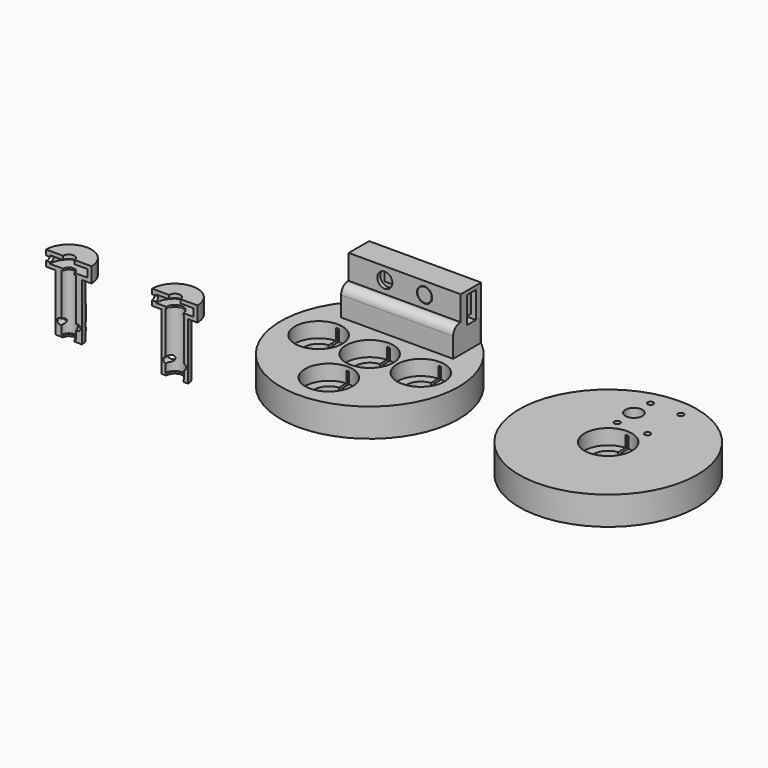
from build123d import *

# Parameters (mm, degrees)
CYLINDER_R              = 47
CYLINDER_DEPTH          = 15
CYLINDER001_R           = 45
CYLINDER001_DEPTH       = 7
CYLINDER003_R           = 14
CYLINDER003_DEPTH       = 10
CYLINDER002_R           = 12.5
CYLINDER002_DEPTH       = 8
CYLINDER004_R           = 7.6
CYLINDER004_DEPTH       = 10
BOX_W                   = 1.5
BOX_H                   = 13.3
BOX_DEPTH               = 13
CYLINDER005_R           = 1.5
CYLINDER005_DEPTH       = 15
CYLINDER006_R           = 1.5
CYLINDER006_DEPTH       = 15
CYLINDER007_R           = 1.5
CYLINDER007_DEPTH       = 15
CYLINDER008_R           = 1.5
CYLINDER008_DEPTH       = 15
CYLINDER009_R           = 4.5
CYLINDER009_DEPTH       = 15
CYLINDER010_R           = 47
CYLINDER010_DEPTH       = 15
CYLINDER011_R           = 45
CYLINDER011_DEPTH       = 7
CYLINDER017_R           = 14
CYLINDER017_DEPTH       = 10
CYLINDER013_R           = 12.5
CYLINDER013_DEPTH       = 8
CYLINDER014_R           = 7.6
CYLINDER014_DEPTH       = 10
BOX001_W                = 1.5
BOX001_H                = 13.3
BOX001_DEPTH            = 13
CYLINDER015_R           = 14
CYLINDER015_DEPTH       = 10
CYLINDER019_R           = 12.5
CYLINDER019_DEPTH       = 8
CYLINDER020_R           = 7.6
CYLINDER020_DEPTH       = 10
BOX012_W                = 1.5
BOX012_H                = 13.3
BOX012_DEPTH            = 13
CYLINDER016_R           = 14
CYLINDER016_DEPTH       = 10
CYLINDER021_R           = 12.5
CYLINDER021_DEPTH       = 8
CYLINDER022_R           = 7.6
CYLINDER022_DEPTH       = 10
BOX013_W                = 1.5
BOX013_H                = 13.3
BOX013_DEPTH            = 13
CYLINDER018_R           = 14
CYLINDER018_DEPTH       = 10
CYLINDER023_R           = 12.5
CYLINDER023_DEPTH       = 8
CYLINDER024_R           = 7.6
CYLINDER024_DEPTH       = 10
BOX014_W                = 1.5
BOX014_H                = 13.3
BOX014_DEPTH            = 13
BOX010_W                = 56
BOX010_H                = 16
BOX010_DEPTH            = 6
BOX011_W                = 50
BOX011_H                = 7
BOX011_DEPTH            = 10
BOX002_W                = 50
BOX002_H                = 30
BOX002_DEPTH            = 1.5
BOX003_W                = 10
BOX003_H                = 10
BOX003_DEPTH            = 4
BOX004_W                = 5
BOX004_H                = 5
BOX004_DEPTH            = 7
BOX005_W                = 5
BOX005_H                = 5
BOX005_DEPTH            = 7
BOX006_W                = 7
BOX006_H                = 5
BOX006_DEPTH            = 8
BOX007_W                = 7
BOX007_H                = 5
BOX007_DEPTH            = 8
BOX008_W                = 7
BOX008_H                = 5
BOX008_DEPTH            = 8
BOX009_W                = 7
BOX009_H                = 5
BOX009_DEPTH            = 8
BOX016_W                = 32
BOX016_H                = 3
BOX016_DEPTH            = 2
BODY002_PLACEMENT_ANGLE = 90
CYLINDER025_R           = 12
CYLINDER025_DEPTH       = 8
CYLINDER026_R           = 7
CYLINDER026_DEPTH       = 30
BOX015_W                = 24
BOX015_H                = 12
BOX015_DEPTH            = 38
CYLINDER027_R           = 5
CYLINDER027_DEPTH       = 30
CYLINDER028_R           = 4.5
CYLINDER028_DEPTH       = 1
CYLINDER032_R           = 4.5
CYLINDER032_DEPTH       = 1
CYLINDER029_R           = 10
CYLINDER029_DEPTH       = 4
CYLINDER030_R           = 3
CYLINDER030_DEPTH       = 2
CYLINDER031_R           = 1.4
CYLINDER031_DEPTH       = 10
CYLINDER035_R           = 1.6
CYLINDER035_DEPTH       = 7
CYLINDER036_R           = 1.6
CYLINDER036_DEPTH       = 7
BOX017_W                = 55.2
BOX017_H                = 2.5
BOX017_DEPTH            = 32
BOX018_W                = 36
BOX018_H                = 3
BOX018_DEPTH            = 7
BOX032_W                = 53
BOX032_H                = 2.5
BOX032_DEPTH            = 1
BOX019_W                = 59.2
BOX019_H                = 1
BOX019_DEPTH            = 26
BOX020_W                = 9.5
BOX020_H                = 13
BOX020_DEPTH            = 2
BOX021_W                = 9.5
BOX021_H                = 13
BOX021_DEPTH            = 2
BOX033_W                = 2
BOX033_H                = 2.5
BOX033_DEPTH            = 14
BOX023_W                = 55.2
BOX023_H                = 13
BOX023_DEPTH            = 4
BOX024_W                = 59.2
BOX024_H                = 17.5
BOX024_DEPTH            = 28
BOX025_W                = 37
BOX025_H                = 13
BOX025_DEPTH            = 6
BOX026_W                = 51
BOX026_H                = 2
BOX026_DEPTH            = 30.5
BOX027_W                = 51
BOX027_H                = 8
BOX027_DEPTH            = 12.5
BOX028_W                = 59.2
BOX028_H                = 5
BOX028_DEPTH            = 13
BOX029_W                = 51
BOX029_H                = 8
BOX029_DEPTH            = 13
CYLINDER033_R           = 4
CYLINDER033_DEPTH       = 3
CYLINDER034_R           = 4
CYLINDER034_DEPTH       = 3
BOX030_W                = 5
BOX030_H                = 8.5
BOX030_DEPTH            = 14
BOX031_W                = 55.2
BOX031_H                = 2.5
BOX031_DEPTH            = 25
BOX034_W                = 59.2
BOX034_H                = 2
BOX034_DEPTH            = 1
FILLET_R                = 4.5
CYLINDER037_R           = 3.75
CYLINDER037_DEPTH       = 5
CYLINDER038_R           = 4.4
CYLINDER038_DEPTH       = 0.8
CYLINDER039_R           = 12
CYLINDER039_DEPTH       = 8
CYLINDER040_R           = 7
CYLINDER040_DEPTH       = 30
BOX035_W                = 24
BOX035_H                = 12
BOX035_DEPTH            = 38
CYLINDER041_R           = 3.75
CYLINDER041_DEPTH       = 30
CYLINDER042_R           = 3
CYLINDER042_DEPTH       = 1
CYLINDER046_R           = 3
CYLINDER046_DEPTH       = 1
CYLINDER043_R           = 10
CYLINDER043_DEPTH       = 4
CYLINDER044_R           = 3
CYLINDER044_DEPTH       = 2
CYLINDER045_R           = 1.4
CYLINDER045_DEPTH       = 10
CYLINDER047_R           = 1.6
CYLINDER047_DEPTH       = 7
CYLINDER048_R           = 1.6
CYLINDER048_DEPTH       = 7


with BuildPart() as cup:
    # Cylinder → Cylinder (join)
    with BuildSketch(Plane.XY):
        Circle(CYLINDER_R)
    extrude(amount=CYLINDER_DEPTH)

    # Cylinder001 → Cylinder001 (cut)
    with BuildSketch(Plane.XY):
        Circle(CYLINDER001_R)
    extrude(amount=CYLINDER001_DEPTH, mode=Mode.SUBTRACT)

    # Cylinder003 → Cylinder003 (join)
    with BuildSketch(Plane.XY):
        Circle(CYLINDER003_R)
    extrude(amount=CYLINDER003_DEPTH)

    # Cylinder002 → Cylinder002 (cut)
    with BuildSketch(Plane.XY.offset(7)):
        Circle(CYLINDER002_R)
    extrude(amount=CYLINDER002_DEPTH, mode=Mode.SUBTRACT)

    # Cylinder004 → Cylinder004 (cut)
    with BuildSketch(Plane.XY):
        Circle(CYLINDER004_R)
    extrude(amount=CYLINDER004_DEPTH, mode=Mode.SUBTRACT)

    # Box → Box (cut)
    with BuildSketch(Plane(origin=(-0.75, 0, 0), x_dir=(1, 0, 0), z_dir=(0, 0, 1))):
        with Locations((0.75, 6.65)):
            Rectangle(BOX_W, BOX_H)
    extrude(amount=BOX_DEPTH, mode=Mode.SUBTRACT)

    # Cylinder005 → Cylinder005 (cut)
    with BuildSketch(Plane(origin=(-8, 38, 0), x_dir=(1, 0, 0), z_dir=(0, 0, 1))):
        Circle(CYLINDER005_R)
    extrude(amount=CYLINDER005_DEPTH, mode=Mode.SUBTRACT)

    # Cylinder006 → Cylinder006 (cut)
    with BuildSketch(Plane(origin=(-8, 16, 0), x_dir=(1, 0, 0), z_dir=(0, 0, 1))):
        Circle(CYLINDER006_R)
    extrude(amount=CYLINDER006_DEPTH, mode=Mode.SUBTRACT)

    # Cylinder007 → Cylinder007 (cut)
    with BuildSketch(Plane(origin=(8, 38, 0), x_dir=(1, 0, 0), z_dir=(0, 0, 1))):
        Circle(CYLINDER007_R)
    extrude(amount=CYLINDER007_DEPTH, mode=Mode.SUBTRACT)

    # Cylinder008 → Cylinder008 (cut)
    with BuildSketch(Plane(origin=(8, 16, 0), x_dir=(1, 0, 0), z_dir=(0, 0, 1))):
        Circle(CYLINDER008_R)
    extrude(amount=CYLINDER008_DEPTH, mode=Mode.SUBTRACT)

    # Cylinder009 → Cylinder009 (cut)
    with BuildSketch(Plane(origin=(-8, 27, 0), x_dir=(1, 0, 0), z_dir=(0, 0, 1))):
        Circle(CYLINDER009_R)
    extrude(amount=CYLINDER009_DEPTH, mode=Mode.SUBTRACT)


with BuildPart() as body001:
    # Cylinder010 → Cylinder010 (join)
    with BuildSketch(Plane.XY):
        Circle(CYLINDER010_R)
    extrude(amount=CYLINDER010_DEPTH)

    # Cylinder011 → Cylinder011 (cut)
    with BuildSketch(Plane.XY):
        Circle(CYLINDER011_R)
    extrude(amount=CYLINDER011_DEPTH, mode=Mode.SUBTRACT)

    # Cylinder017 → Cylinder017 (join)
    with BuildSketch(Plane.XY):
        Circle(CYLINDER017_R)
    extrude(amount=CYLINDER017_DEPTH)

    # Cylinder013 → Cylinder013 (cut)
    with BuildSketch(Plane.XY.offset(7)):
        Circle(CYLINDER013_R)
    extrude(amount=CYLINDER013_DEPTH, mode=Mode.SUBTRACT)

    # Cylinder014 → Cylinder014 (cut)
    with BuildSketch(Plane.XY):
        Circle(CYLINDER014_R)
    extrude(amount=CYLINDER014_DEPTH, mode=Mode.SUBTRACT)

    # Box001 → Box001 (cut)
    with BuildSketch(Plane(origin=(-0.75, 0, 0), x_dir=(1, 0, 0), z_dir=(0, 0, 1))):
        with Locations((0.75, 6.65)):
            Rectangle(BOX001_W, BOX001_H)
    extrude(amount=BOX001_DEPTH, mode=Mode.SUBTRACT)

    # Cylinder015 → Cylinder015 (join)
    with BuildSketch(Plane(origin=(-27, 0, 0), x_dir=(1, 0, 0), z_dir=(0, 0, 1))):
        Circle(CYLINDER015_R)
    extrude(amount=CYLINDER015_DEPTH)

    # Cylinder019 → Cylinder019 (cut)
    with BuildSketch(Plane(origin=(-27, 0, 7), x_dir=(1, 0, 0), z_dir=(0, 0, 1))):
        Circle(CYLINDER019_R)
    extrude(amount=CYLINDER019_DEPTH, mode=Mode.SUBTRACT)

    # Cylinder020 → Cylinder020 (cut)
    with BuildSketch(Plane(origin=(-27, 0, 0), x_dir=(1, 0, 0), z_dir=(0, 0, 1))):
        Circle(CYLINDER020_R)
    extrude(amount=CYLINDER020_DEPTH, mode=Mode.SUBTRACT)

    # Box012 → Box012 (cut)
    with BuildSketch(Plane(origin=(-27.75, 0, 0), x_dir=(1, 0, 0), z_dir=(0, 0, 1))):
        with Locations((0.75, 6.65)):
            Rectangle(BOX012_W, BOX012_H)
    extrude(amount=BOX012_DEPTH, mode=Mode.SUBTRACT)

    # Cylinder016 → Cylinder016 (join)
    with BuildSketch(Plane(origin=(27, 0, 0), x_dir=(1, 0, 0), z_dir=(0, 0, 1))):
        Circle(CYLINDER016_R)
    extrude(amount=CYLINDER016_DEPTH)

    # Cylinder021 → Cylinder021 (cut)
    with BuildSketch(Plane(origin=(27, 0, 7), x_dir=(1, 0, 0), z_dir=(0, 0, 1))):
        Circle(CYLINDER021_R)
    extrude(amount=CYLINDER021_DEPTH, mode=Mode.SUBTRACT)

    # Cylinder022 → Cylinder022 (cut)
    with BuildSketch(Plane(origin=(27, 0, 0), x_dir=(1, 0, 0), z_dir=(0, 0, 1))):
        Circle(CYLINDER022_R)
    extrude(amount=CYLINDER022_DEPTH, mode=Mode.SUBTRACT)

    # Box013 → Box013 (cut)
    with BuildSketch(Plane(origin=(26.25, 0, 0), x_dir=(1, 0, 0), z_dir=(0, 0, 1))):
        with Locations((0.75, 6.65)):
            Rectangle(BOX013_W, BOX013_H)
    extrude(amount=BOX013_DEPTH, mode=Mode.SUBTRACT)

    # Cylinder018 → Cylinder018 (join)
    with BuildSketch(Plane(origin=(0, -27, 0), x_dir=(1, 0, 0), z_dir=(0, 0, 1))):
        Circle(CYLINDER018_R)
    extrude(amount=CYLINDER018_DEPTH)

    # Cylinder023 → Cylinder023 (cut)
    with BuildSketch(Plane(origin=(0, -27, 7), x_dir=(1, 0, 0), z_dir=(0, 0, 1))):
        Circle(CYLINDER023_R)
    extrude(amount=CYLINDER023_DEPTH, mode=Mode.SUBTRACT)

    # Cylinder024 → Cylinder024 (cut)
    with BuildSketch(Plane(origin=(0, -27, 0), x_dir=(1, 0, 0), z_dir=(0, 0, 1))):
        Circle(CYLINDER024_R)
    extrude(amount=CYLINDER024_DEPTH, mode=Mode.SUBTRACT)

    # Box014 → Box014 (cut)
    with BuildSketch(Plane(origin=(-0.75, -27, 0), x_dir=(1, 0, 0), z_dir=(0, 0, 1))):
        with Locations((0.75, 6.65)):
            Rectangle(BOX014_W, BOX014_H)
    extrude(amount=BOX014_DEPTH, mode=Mode.SUBTRACT)

    # Box010 → Box010 (cut)
    with BuildSketch(Plane(origin=(-28, 20, 9), x_dir=(1, 0, 0), z_dir=(0, 0, 1))):
        with Locations((28, 8)):
            Rectangle(BOX010_W, BOX010_H)
    extrude(amount=BOX010_DEPTH, mode=Mode.SUBTRACT)

    # Box011 → Box011 (cut)
    with BuildSketch(Plane(origin=(-25, 22, 0), x_dir=(1, 0, 0), z_dir=(0, 0, 1))):
        with Locations((25, 3.5)):
            Rectangle(BOX011_W, BOX011_H)
    extrude(amount=BOX011_DEPTH, mode=Mode.SUBTRACT)


with BuildPart() as body001_1:
    # Body001 placement: moved
    add(body001.part.moved(Location((-126, 0, 0))))


with BuildPart() as pcb:
    # Box002 → Box002 (join)
    with BuildSketch(Plane.XY):
        with Locations((25, 15)):
            Rectangle(BOX002_W, BOX002_H)
    extrude(amount=BOX002_DEPTH)

    # Box003 → Box003 (join)
    with BuildSketch(Plane(origin=(42, 18, 0), x_dir=(1, 0, 0), z_dir=(0, 0, 1))):
        with Locations((5, 5)):
            Rectangle(BOX003_W, BOX003_H)
    extrude(amount=BOX003_DEPTH)

    # Box004 → Box004 (join)
    with BuildSketch(Plane(origin=(33, 23, 0), x_dir=(1, 0, 0), z_dir=(0, 0, 1))):
        with Locations((2.5, 2.5)):
            Rectangle(BOX004_W, BOX004_H)
    extrude(amount=BOX004_DEPTH)

    # Box005 → Box005 (join)
    with BuildSketch(Plane(origin=(12, 23, 0), x_dir=(1, 0, 0), z_dir=(0, 0, 1))):
        with Locations((2.5, 2.5)):
            Rectangle(BOX005_W, BOX005_H)
    extrude(amount=BOX005_DEPTH)

    # Box006 → Box006 (join)
    with BuildSketch(Plane(origin=(7, 0, 0), x_dir=(1, 0, 0), z_dir=(0, 0, 1))):
        with Locations((3.5, 2.5)):
            Rectangle(BOX006_W, BOX006_H)
    extrude(amount=BOX006_DEPTH)

    # Box007 → Box007 (join)
    with BuildSketch(Plane(origin=(16.5, 0, 0), x_dir=(1, 0, 0), z_dir=(0, 0, 1))):
        with Locations((3.5, 2.5)):
            Rectangle(BOX007_W, BOX007_H)
    extrude(amount=BOX007_DEPTH)

    # Box008 → Box008 (join)
    with BuildSketch(Plane(origin=(26.5, 0, 0), x_dir=(1, 0, 0), z_dir=(0, 0, 1))):
        with Locations((3.5, 2.5)):
            Rectangle(BOX008_W, BOX008_H)
    extrude(amount=BOX008_DEPTH)

    # Box009 → Box009 (join)
    with BuildSketch(Plane(origin=(36, 0, 0), x_dir=(1, 0, 0), z_dir=(0, 0, 1))):
        with Locations((3.5, 2.5)):
            Rectangle(BOX009_W, BOX009_H)
    extrude(amount=BOX009_DEPTH)

    # Box016 → Box016 (join)
    with BuildSketch(Plane(origin=(9, 0, -2), x_dir=(1, 0, 0), z_dir=(0, 0, 1))):
        with Locations((16, 1.5)):
            Rectangle(BOX016_W, BOX016_H)
    extrude(amount=BOX016_DEPTH)


with BuildPart() as pcb_1:
    # Body002 placement: moved
    add(pcb.part.moved(Location((-151, 33, 11))).rotate(Axis((-151, 33, 11), (1, 0, 0)), BODY002_PLACEMENT_ANGLE))


with BuildPart() as body003:
    # Cylinder025 → Cylinder025 (join)
    with BuildSketch(Plane.XY):
        Circle(CYLINDER025_R)
    extrude(amount=CYLINDER025_DEPTH)

    # Cylinder026 → Cylinder026 (join)
    with BuildSketch(Plane.XY.offset(-30)):
        Circle(CYLINDER026_R)
    extrude(amount=CYLINDER026_DEPTH)

    # Box015 → Box015 (cut)
    with BuildSketch(Plane(origin=(-12, -12, -30), x_dir=(1, 0, 0), z_dir=(0, 0, 1))):
        with Locations((12, 6)):
            Rectangle(BOX015_W, BOX015_H)
    extrude(amount=BOX015_DEPTH, mode=Mode.SUBTRACT)

    # Cylinder027 → Cylinder027 (cut)
    with BuildSketch(Plane.XY.offset(-29)):
        Circle(CYLINDER027_R)
    extrude(amount=CYLINDER027_DEPTH, mode=Mode.SUBTRACT)

    # Cylinder028 → Cylinder028 (cut)
    with BuildSketch(Plane.XY.offset(-30)):
        Circle(CYLINDER028_R)
    extrude(amount=CYLINDER028_DEPTH, mode=Mode.SUBTRACT)

    # Cylinder032 → Cylinder032 (cut)
    with BuildSketch(Plane.XY.offset(1)):
        Circle(CYLINDER032_R)
    extrude(amount=CYLINDER032_DEPTH, mode=Mode.SUBTRACT)

    # Cylinder029 → Cylinder029 (cut)
    with BuildSketch(Plane.XY.offset(2)):
        Circle(CYLINDER029_R)
    extrude(amount=CYLINDER029_DEPTH, mode=Mode.SUBTRACT)

    # Cylinder030 → Cylinder030 (cut)
    with BuildSketch(Plane.XY.offset(6)):
        Circle(CYLINDER030_R)
    extrude(amount=CYLINDER030_DEPTH, mode=Mode.SUBTRACT)

    # Cylinder031 → Cylinder031 (cut)
    with BuildSketch(Plane(origin=(-12, 0, 4), x_dir=(0, 1, 0), z_dir=(1, 0, 0))):
        Circle(CYLINDER031_R)
    extrude(amount=CYLINDER031_DEPTH, mode=Mode.SUBTRACT)

    # Cylinder035 → Cylinder035 (cut)
    with BuildSketch(Plane(origin=(4.5, 7, -23), x_dir=(1, 0, 0), z_dir=(0, -1, 0))):
        Circle(CYLINDER035_R)
    extrude(amount=CYLINDER035_DEPTH, mode=Mode.SUBTRACT)

    # Cylinder036 → Cylinder036 (cut)
    with BuildSketch(Plane(origin=(-4.5, 7, -23), x_dir=(1, 0, 0), z_dir=(0, -1, 0))):
        Circle(CYLINDER036_R)
    extrude(amount=CYLINDER036_DEPTH, mode=Mode.SUBTRACT)


with BuildPart() as body003_1:
    # Body003 placement: moved
    add(body003.part.moved(Location((-229, 0, 0))))


with BuildPart() as pcb_shell_back:
    # Box017 → Box017 (join)
    with BuildSketch(Plane.XY):
        with Locations((27.6, 1.25)):
            Rectangle(BOX017_W, BOX017_H)
    extrude(amount=BOX017_DEPTH)

    # Box018 → Box018 (cut)
    with BuildSketch(Plane(origin=(9.5, 0, 0), x_dir=(1, 0, 0), z_dir=(0, 0, 1))):
        with Locations((18, 1.5)):
            Rectangle(BOX018_W, BOX018_H)
    extrude(amount=BOX018_DEPTH, mode=Mode.SUBTRACT)

    # Box032 → Box032 (cut)
    with BuildSketch(Plane.XY.offset(31)):
        with Locations((26.5, 1.25)):
            Rectangle(BOX032_W, BOX032_H)
    extrude(amount=BOX032_DEPTH, mode=Mode.SUBTRACT)

    # Box019 → Box019 (join)
    with BuildSketch(Plane(origin=(-2, 2.5, 6), x_dir=(1, 0, 0), z_dir=(0, 0, 1))):
        with Locations((29.6, 0.5)):
            Rectangle(BOX019_W, BOX019_H)
    extrude(amount=BOX019_DEPTH)

    # Box020 → Box020 (join)
    with BuildSketch(Plane(origin=(0, -13, 0), x_dir=(1, 0, 0), z_dir=(0, 0, 1))):
        with Locations((4.75, 6.5)):
            Rectangle(BOX020_W, BOX020_H)
    extrude(amount=BOX020_DEPTH)

    # Box021 → Box021 (join)
    with BuildSketch(Plane(origin=(45.5, -13, 0), x_dir=(1, 0, 0), z_dir=(0, 0, 1))):
        with Locations((4.75, 6.5)):
            Rectangle(BOX021_W, BOX021_H)
    extrude(amount=BOX021_DEPTH)

    # Box033 → Box033 (join)
    with BuildSketch(Plane(origin=(55.2, 0, 18), x_dir=(1, 0, 0), z_dir=(0, 0, 1))):
        with Locations((1, 1.25)):
            Rectangle(BOX033_W, BOX033_H)
    extrude(amount=BOX033_DEPTH)


with BuildPart() as pcb_shell_back_1:
    # Body004 placement: moved
    add(pcb_shell_back.part.moved(Location((-153.6, 33.1, 9))))


with BuildPart() as pcb_shell_front:
    # Box023 → Box023 (join)
    with BuildSketch(Plane.XY):
        with Locations((27.6, 6.5)):
            Rectangle(BOX023_W, BOX023_H)
    extrude(amount=BOX023_DEPTH)

    # Box024 → Box024 (join)
    with BuildSketch(Plane(origin=(-2, -2, 4), x_dir=(1, 0, 0), z_dir=(0, 0, 1))):
        with Locations((29.6, 8.75)):
            Rectangle(BOX024_W, BOX024_H)
    extrude(amount=BOX024_DEPTH)

    # Box025 → Box025 (cut)
    with BuildSketch(Plane(origin=(9, 0, 0), x_dir=(1, 0, 0), z_dir=(0, 0, 1))):
        with Locations((18.5, 6.5)):
            Rectangle(BOX025_W, BOX025_H)
    extrude(amount=BOX025_DEPTH, mode=Mode.SUBTRACT)

    # Box026 → Box026 (cut)
    with BuildSketch(Plane(origin=(2, 11, 0), x_dir=(1, 0, 0), z_dir=(0, 0, 1))):
        with Locations((25.5, 1)):
            Rectangle(BOX026_W, BOX026_H)
    extrude(amount=BOX026_DEPTH, mode=Mode.SUBTRACT)

    # Box027 → Box027 (cut)
    with BuildSketch(Plane(origin=(2, 3, 5), x_dir=(1, 0, 0), z_dir=(0, 0, 1))):
        with Locations((25.5, 4)):
            Rectangle(BOX027_W, BOX027_H)
    extrude(amount=BOX027_DEPTH, mode=Mode.SUBTRACT)

    # Box028 → Box028 (cut)
    with BuildSketch(Plane(origin=(-2, -2, 19), x_dir=(1, 0, 0), z_dir=(0, 0, 1))):
        with Locations((29.6, 2.5)):
            Rectangle(BOX028_W, BOX028_H)
    extrude(amount=BOX028_DEPTH, mode=Mode.SUBTRACT)

    # Box029 → Box029 (cut)
    with BuildSketch(Plane(origin=(2, 5, 17), x_dir=(1, 0, 0), z_dir=(0, 0, 1))):
        with Locations((25.5, 4)):
            Rectangle(BOX029_W, BOX029_H)
    extrude(amount=BOX029_DEPTH, mode=Mode.SUBTRACT)

    # Cylinder033 → Cylinder033 (cut)
    with BuildSketch(Plane(origin=(17.1, 5, 25.5), x_dir=(1, 0, 0), z_dir=(0, -1, 0))):
        Circle(CYLINDER033_R)
    extrude(amount=CYLINDER033_DEPTH, mode=Mode.SUBTRACT)

    # Cylinder034 → Cylinder034 (cut)
    with BuildSketch(Plane(origin=(38.1, 5, 25.5), x_dir=(1, 0, 0), z_dir=(0, -1, 0))):
        Circle(CYLINDER034_R)
    extrude(amount=CYLINDER034_DEPTH, mode=Mode.SUBTRACT)

    # Box030 → Box030 (cut)
    with BuildSketch(Plane(origin=(53, 7, 16), x_dir=(1, 0, 0), z_dir=(0, 0, 1))):
        with Locations((2.5, 4.25)):
            Rectangle(BOX030_W, BOX030_H)
    extrude(amount=BOX030_DEPTH, mode=Mode.SUBTRACT)

    # Box031 → Box031 (cut)
    with BuildSketch(Plane(origin=(0, 13, 4), x_dir=(1, 0, 0), z_dir=(0, 0, 1))):
        with Locations((27.6, 1.25)):
            Rectangle(BOX031_W, BOX031_H)
    extrude(amount=BOX031_DEPTH, mode=Mode.SUBTRACT)

    # Box034 → Box034 (join)
    with BuildSketch(Plane(origin=(-2, 16.5, 30), x_dir=(1, 0, 0), z_dir=(0, -1, 0))):
        with Locations((29.6, 1)):
            Rectangle(BOX034_W, BOX034_H)
    extrude(amount=BOX034_DEPTH)

    # Fillet
    fillet_edges = [pcb_shell_front.edges().sort_by_distance(p)[0] for p in [
        (27.6, -2, 19),
    ]]
    fillet(fillet_edges, radius=FILLET_R)


with BuildPart() as pcb_shell_front_1:
    # Body005 placement: moved
    add(pcb_shell_front.part.moved(Location((-153.6, 20.1, 11))))


with BuildPart() as button:
    # Cylinder037 → Cylinder037 (join)
    with BuildSketch(Plane.XZ):
        Circle(CYLINDER037_R)
    extrude(amount=CYLINDER037_DEPTH)

    # Cylinder038 → Cylinder038 (join)
    with BuildSketch(Plane.XZ.offset(-0.8)):
        Circle(CYLINDER038_R)
    extrude(amount=CYLINDER038_DEPTH)


with BuildPart() as button_1:
    # Body006 placement: moved
    add(button.part.moved(Location((-115.5, 28.1, 36.5))))


with BuildPart() as body007:
    # Cylinder039 → Cylinder039 (join)
    with BuildSketch(Plane.XY):
        Circle(CYLINDER039_R)
    extrude(amount=CYLINDER039_DEPTH)

    # Cylinder040 → Cylinder040 (join)
    with BuildSketch(Plane.XY.offset(-30)):
        Circle(CYLINDER040_R)
    extrude(amount=CYLINDER040_DEPTH)

    # Box035 → Box035 (cut)
    with BuildSketch(Plane(origin=(-12, -12, -30), x_dir=(1, 0, 0), z_dir=(0, 0, 1))):
        with Locations((12, 6)):
            Rectangle(BOX035_W, BOX035_H)
    extrude(amount=BOX035_DEPTH, mode=Mode.SUBTRACT)

    # Cylinder041 → Cylinder041 (cut)
    with BuildSketch(Plane.XY.offset(-29)):
        Circle(CYLINDER041_R)
    extrude(amount=CYLINDER041_DEPTH, mode=Mode.SUBTRACT)

    # Cylinder042 → Cylinder042 (cut)
    with BuildSketch(Plane.XY.offset(-30)):
        Circle(CYLINDER042_R)
    extrude(amount=CYLINDER042_DEPTH, mode=Mode.SUBTRACT)

    # Cylinder046 → Cylinder046 (cut)
    with BuildSketch(Plane.XY.offset(1)):
        Circle(CYLINDER046_R)
    extrude(amount=CYLINDER046_DEPTH, mode=Mode.SUBTRACT)

    # Cylinder043 → Cylinder043 (cut)
    with BuildSketch(Plane.XY.offset(2)):
        Circle(CYLINDER043_R)
    extrude(amount=CYLINDER043_DEPTH, mode=Mode.SUBTRACT)

    # Cylinder044 → Cylinder044 (cut)
    with BuildSketch(Plane.XY.offset(6)):
        Circle(CYLINDER044_R)
    extrude(amount=CYLINDER044_DEPTH, mode=Mode.SUBTRACT)

    # Cylinder045 → Cylinder045 (cut)
    with BuildSketch(Plane(origin=(-12, 0.7, 4), x_dir=(0, 1, 0), z_dir=(1, 0, 0))):
        Circle(CYLINDER045_R)
    extrude(amount=CYLINDER045_DEPTH, mode=Mode.SUBTRACT)

    # Cylinder047 → Cylinder047 (cut)
    with BuildSketch(Plane(origin=(4.5, 7, -23), x_dir=(1, 0, 0), z_dir=(0, -1, 0))):
        Circle(CYLINDER047_R)
    extrude(amount=CYLINDER047_DEPTH, mode=Mode.SUBTRACT)

    # Cylinder048 → Cylinder048 (cut)
    with BuildSketch(Plane(origin=(-4.5, 7, -23), x_dir=(1, 0, 0), z_dir=(0, -1, 0))):
        Circle(CYLINDER048_R)
    extrude(amount=CYLINDER048_DEPTH, mode=Mode.SUBTRACT)


with BuildPart() as body007_1:
    # Body007 placement: moved
    add(body007.part.moved(Location((-285, 0, 0))))


solid = Compound([cup.part, body001_1.part, pcb_1.part, body003_1.part, pcb_shell_back_1.part, pcb_shell_front_1.part, button_1.part, body007_1.part])
